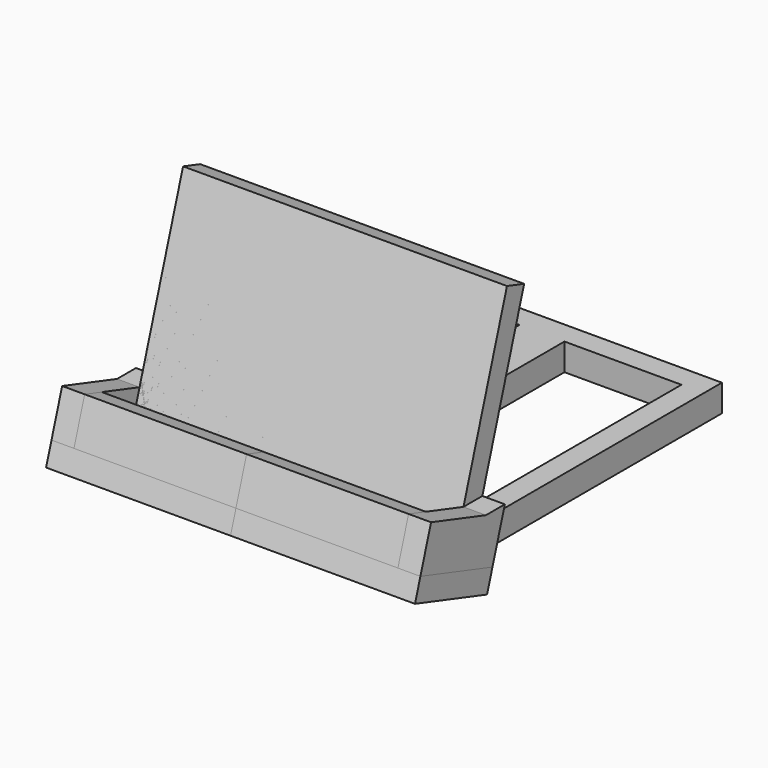
from build123d import *

# Parameters (mm, degrees)
F0_W      = 26
F0_H      = 60
F1_DEPTH  = 6
F3_DEPTH  = 100
F5_DEPTH  = 75
F6_W      = 72
F6_H      = 43.7082803012
F7_DEPTH  = 5
F9_DEPTH  = 5
F10_W     = 5
F10_H     = 9.8364483956
F11_DEPTH = 16
F13_DEPTH = 36
F16_DEPTH = 5


with BuildPart() as f1:
    # F0 (on Top) → F1 (new body)
    with BuildSketch(Plane.XY):
        Polygon((-36, 0), (0, 0), (36, 0), (36, 70), (0, 70), (-36, 70), align=None)
        with Locations((-18, 35)):
            Rectangle(F0_W, F0_H, mode=Mode.SUBTRACT)
        with Locations((18, 35)):
            Rectangle(F0_W, F0_H, mode=Mode.SUBTRACT)
    extrude(amount=F1_DEPTH)

    # F2 (on face) → F3 (cut)
    with BuildSketch(Plane.XZ):
        with BuildLine():
            ThreePointArc((1.9022511578, 1.75), (1.3450946932, 3.0950946932), (0, 3.6522511578))
            ThreePointArc((0, 3.6522511578), (-1.3450946932, 3.0950946932), (-1.9022511578, 1.75))
            Line((-1.9022511578, 1.75), (-1.9022511578, 0))
            Line((-1.9022511578, 0), (1.9022511578, 0))
            Line((1.9022511578, 0), (1.9022511578, 1.75))
        make_face()
    extrude(amount=-F3_DEPTH, mode=Mode.SUBTRACT)

    # F4 (on face) → F5 (cut)
    with BuildSketch(Plane.YZ.offset(36)):
        Polygon((0, 6), (0, 0), (1.8936041743, 6), align=None)
    extrude(amount=-F5_DEPTH, mode=Mode.SUBTRACT)

    # F6 (on face) → F7 (join)
    with BuildSketch(Plane(origin=(0, 0, 0), x_dir=(1, 0, 0), z_dir=(0, -0.953634346, 0.300967663))):
        with Locations((0, 28.1458598494)):
            Rectangle(F6_W, F6_H)
        with BuildLine():
            Line((-36, 6.2917196988), (-36, 0))
            Line((-36, 0), (-1.9022511578, 0))
            Line((-1.9022511578, 0), (-1.9022511578, 1.8350849122))
            add(Edge.make_bspline(
                [(-1.9022511578, 1.8350849122), (-1.9022511578, 3.8298234258), (0, 3.8298234258), (1.9022511578, 3.8298234258), (1.9022511578, 1.8350849122)],
                knots=[1.5707963268, 1.5707963268, 1.5707963268, 3.1415926536, 3.1415926536, 4.7123889804, 4.7123889804, 4.7123889804], degree=2, weights=[1, 0.7071067812, 1, 0.7071067812, 1]))
            Line((1.9022511578, 1.8350849122), (1.9022511578, 0))
            Line((1.9022511578, 0), (36, 0))
            Line((36, 0), (36, 6.2917196988))
            Line((36, 6.2917196988), (-36, 6.2917196988))
        make_face()
    extrude(amount=F7_DEPTH)

    # F8 (on face) → F9 (join)
    with BuildSketch(Plane.YZ.offset(36)):
        Polygon((3.4353809054, 10.8852133476), (-1.8077188436, 10.8852133476), (-4.7681717298, 1.5048383152), (0, 0), (1.8936041743, 6), align=None)
    extrude(amount=F9_DEPTH)

    # F10 (on face) → F11 (join)
    with BuildSketch(Plane(origin=(0, -4.7681717298, 1.5048383152), x_dir=(1, 0, 0), z_dir=(0, -0.953634346, 0.300967663))):
        with Locations((38.5, 4.9182241978)):
            Rectangle(F10_W, F10_H)
    extrude(amount=F11_DEPTH)

    # F12 (on face) → F13 (join)
    with BuildSketch(Plane(origin=(36, 0, 0), x_dir=(0, -1, 0), z_dir=(-1, 0, 0))):
        Polygon((20.0263212653, 6.3203209238), (17.065868379, 15.7006959562), (12.2976966492, 14.195857641), (15.2581495354, 4.8154826086), align=None)
    extrude(amount=F13_DEPTH)


with BuildPart() as f14_1:
    # F14: instance of F1
    add(f1.part.mirror(Plane.YZ))


with BuildPart() as f16:
    # F15 (on face) → F16 (new body)
    with BuildSketch(Plane(origin=(0, 0, 0), x_dir=(1, 0, 0), z_dir=(0, -0.300967663, -0.953634346))):
        Polygon((41, 21), (0, 21), (0, 16), (36, 16), (36, 5), (1.9022511578, 5), (1.9022511578, 0), (3.5025123507, 0), (36, 0), (41, 0), align=None)
        Polygon((36, 16), (0, 16), (0, 0), (1.9022511578, 0), (1.9022511578, 5), (36, 5), align=None)
    extrude(amount=F16_DEPTH)


with BuildPart() as f17_1:
    # F17: instance of F16
    add(f16.part.mirror(Plane.YZ))


solid = Compound([f1.part, f14_1.part, f16.part, f17_1.part])
